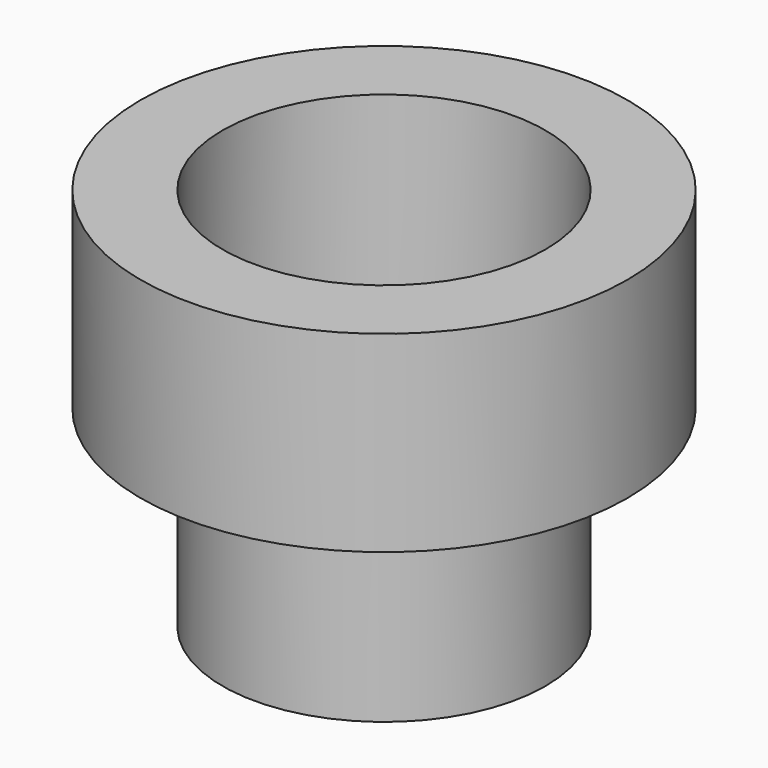
from build123d import *

# Parameters (mm, degrees)
F0_R     = 16.002
F1_DEPTH = 19.05
F2_R     = 24.13
F2_R_2   = 16.002
F3_DEPTH = 19.05


with BuildPart() as f1:
    # F0 (on Top) → F1 (new body)
    with BuildSketch(Plane.XY):
        with Locations((-4.224315, 14.483362)):
            Circle(F0_R)
    extrude(amount=F1_DEPTH)


with BuildPart() as f3:
    # F2 (on face) → F3 (new body)
    with BuildSketch(Plane.XY.offset(19.05)):
        with Locations((-4.224315, 14.483362)):
            Circle(F2_R)
        with Locations((-4.224315, 14.483362)):
            Circle(F2_R_2, mode=Mode.SUBTRACT)
    extrude(amount=F3_DEPTH)


solid = Compound([f1.part, f3.part])
